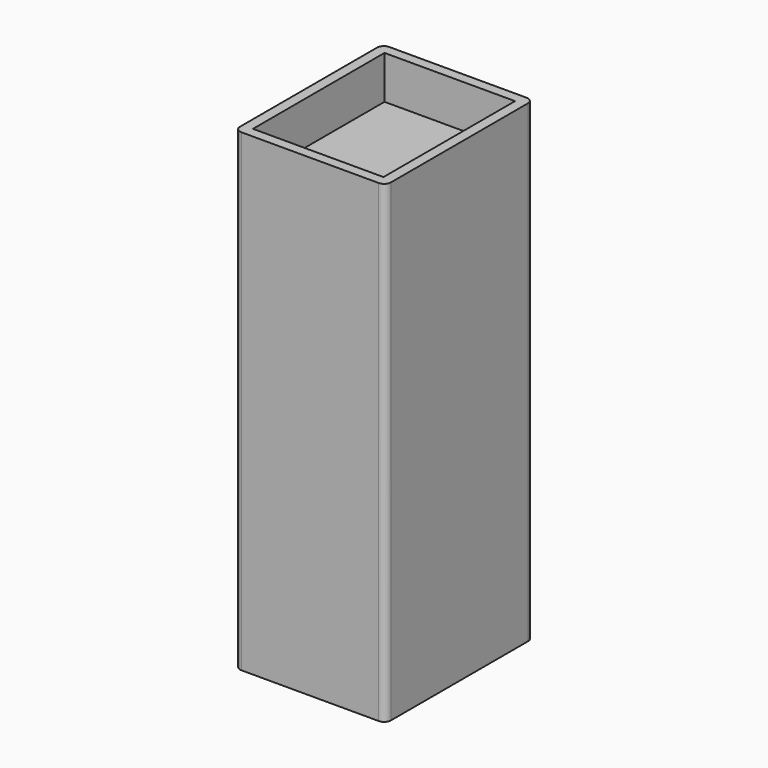
from build123d import *

# Parameters (mm, degrees)
F0_W     = 38.5
F0_H     = 48.5
F1_DEPTH = 12.7
F2_DEPTH = 127


with BuildPart() as f1:
    # F0 (on Top) → F1 (new body)
    with BuildSketch(Plane.XY):
        with BuildLine():
            Line((20.25, 27.25), (-20.25, 27.25))
            ThreePointArc((-20.25, 27.25), (-21.6642135624, 26.6642135624), (-22.25, 25.25))
            Line((-22.25, 25.25), (-22.25, -25.25))
            ThreePointArc((-22.25, -25.25), (-21.6642135624, -26.6642135624), (-20.25, -27.25))
            Line((-20.25, -27.25), (20.25, -27.25))
            ThreePointArc((20.25, -27.25), (21.6642135624, -26.6642135624), (22.25, -25.25))
            Line((22.25, -25.25), (22.25, 25.25))
            ThreePointArc((22.25, 25.25), (21.6642135624, 26.6642135624), (20.25, 27.25))
        make_face()
        Rectangle(F0_W, F0_H, mode=Mode.SUBTRACT)
    extrude(amount=F1_DEPTH)

    # F0 (on Top) → F2 (join)
    with BuildSketch(Plane.XY):
        with BuildLine():
            Line((20.25, 27.25), (-20.25, 27.25))
            ThreePointArc((-20.25, 27.25), (-21.6642135624, 26.6642135624), (-22.25, 25.25))
            Line((-22.25, 25.25), (-22.25, -25.25))
            ThreePointArc((-22.25, -25.25), (-21.6642135624, -26.6642135624), (-20.25, -27.25))
            Line((-20.25, -27.25), (20.25, -27.25))
            ThreePointArc((20.25, -27.25), (21.6642135624, -26.6642135624), (22.25, -25.25))
            Line((22.25, -25.25), (22.25, 25.25))
            ThreePointArc((22.25, 25.25), (21.6642135624, 26.6642135624), (20.25, 27.25))
        make_face()
        Rectangle(F0_W, F0_H, mode=Mode.SUBTRACT)
        Rectangle(F0_W, F0_H)
    extrude(amount=-F2_DEPTH)


solid = f1.part
